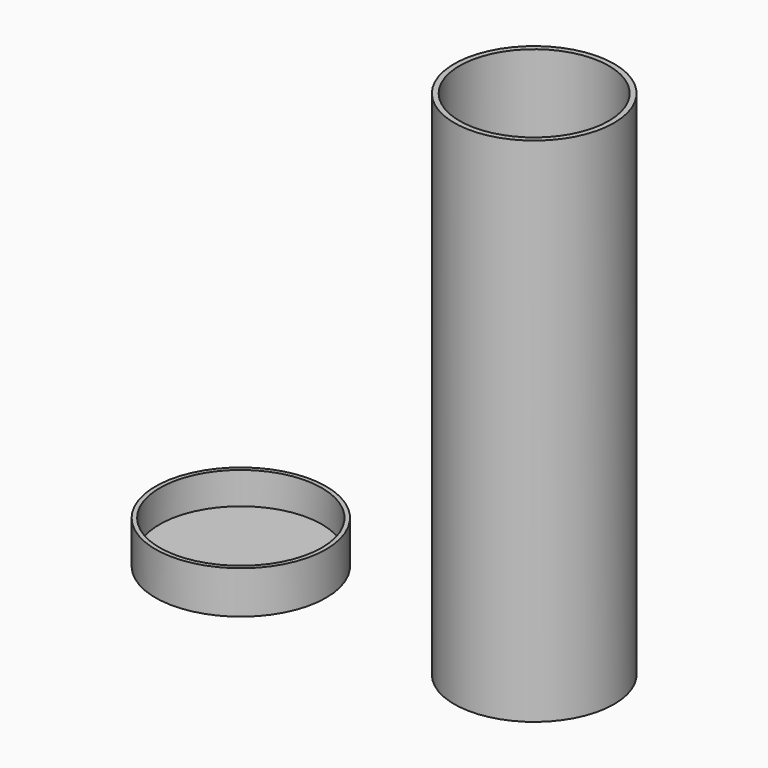
from build123d import *

# Parameters (mm, degrees)
F0_R     = 47.625
F0_R_2   = 44.45
F1_DEPTH = 304.8
F0_R_3   = 48.26
F2_DEPTH = 6.35
F0_R_4   = 50.8
F3_DEPTH = 25.4


with BuildPart() as f1:
    # F0 (on Top) → F1 (new body)
    with BuildSketch(Plane.XY):
        Circle(F0_R)
        Circle(F0_R_2, mode=Mode.SUBTRACT)
    extrude(amount=F1_DEPTH)


with BuildPart() as f2:
    # F0 (on Top) → F2 (new body)
    with BuildSketch(Plane.XY):
        with Locations((-174.742401, 0)):
            Circle(F0_R_3)
    extrude(amount=F2_DEPTH)

    # F0 (on Top) → F3 (join)
    with BuildSketch(Plane.XY):
        with Locations((-174.742401, 0)):
            Circle(F0_R_4)
        with Locations((-174.742401, 0)):
            Circle(F0_R_3, mode=Mode.SUBTRACT)
    extrude(amount=F3_DEPTH)


solid = Compound([f1.part, f2.part])
